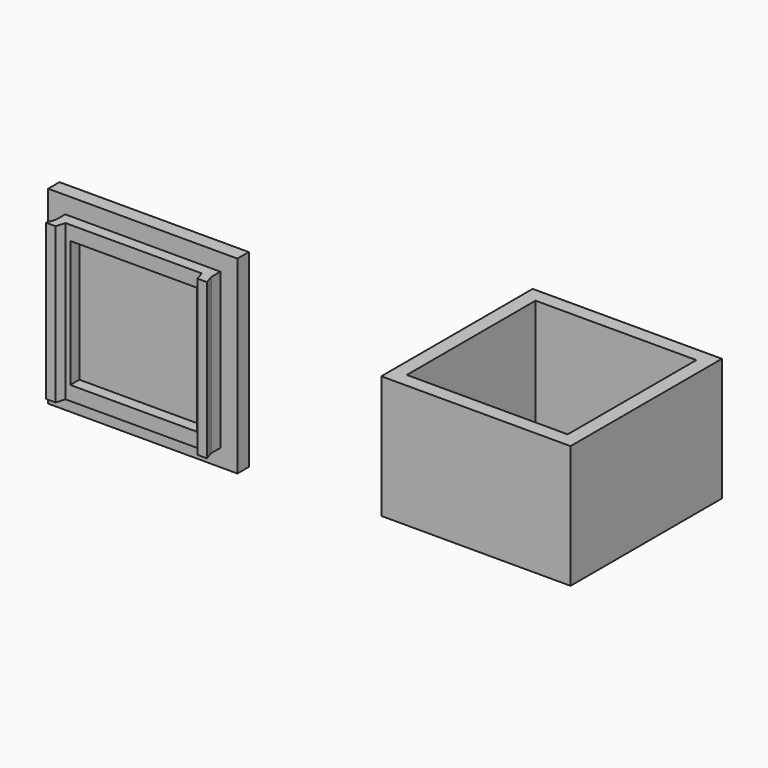
from build123d import *

# Parameters (mm, degrees)
F0_W     = 20
F0_H     = 20
F1_DEPTH = 1.5
F2_W     = 20
F2_H     = 20
F2_W_2   = 17
F2_H_2   = 17
F3_DEPTH = 11.5
F4_W     = 20
F4_H     = 20
F5_DEPTH = 1.5
F6_W     = 16.4
F6_H     = 16.4
F6_W_2   = 13.4
F6_H_2   = 13.4
F7_DEPTH = 1.2
F9_DEPTH = 16.4


with BuildPart() as f1:
    # F0 (on Top) → F1 (new body)
    with BuildSketch(Plane.XY):
        with Locations((-10, 10)):
            Rectangle(F0_W, F0_H)
    extrude(amount=F1_DEPTH)

    # F2 (on face) → F3 (join)
    with BuildSketch(Plane.XY.offset(1.5)):
        with Locations((-10, 10)):
            Rectangle(F2_W, F2_H)
        with Locations((-10, 10)):
            Rectangle(F2_W_2, F2_H_2, mode=Mode.SUBTRACT)
    extrude(amount=F3_DEPTH)


with BuildPart() as f5:
    # F4 (on Front) → F5 (new body)
    with BuildSketch(Plane.XZ):
        with Locations((-44.008897, 10)):
            Rectangle(F4_W, F4_H)
        with Locations((-44.008897, 10)):
            Rectangle(F4_W, F4_H)
    extrude(amount=F5_DEPTH)

    # F6 (on face) → F7 (join)
    with BuildSketch(Plane.XZ.offset(1.5)):
        with Locations((-44.008897, 10)):
            Rectangle(F6_W, F6_H)
        with Locations((-44.008897, 10)):
            Rectangle(F6_W_2, F6_H_2, mode=Mode.SUBTRACT)
    extrude(amount=F7_DEPTH)

    # F8 (on face) → F9 (join)
    with BuildSketch(Plane(origin=(0, 0, 1.8), x_dir=(1, 0, 0), z_dir=(0, 0, -1))):
        Polygon((-52.50749, 3.654381), (-52.208897, 2.7), (-51.208897, 2.7), (-51.50749, 3.654381), align=None)
        Polygon((-35.510305, 3.654381), (-36.510305, 3.654381), (-36.808897, 2.7), (-35.808897, 2.7), align=None)
    extrude(amount=-F9_DEPTH)


solid = Compound([f1.part, f5.part])
